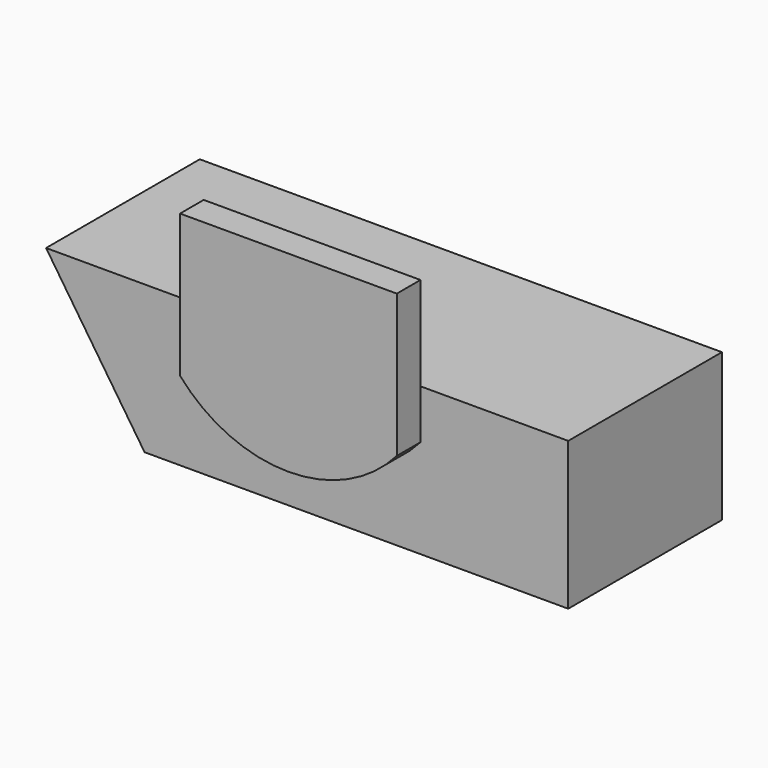
from build123d import *

# Parameters (mm, degrees)
F1_DEPTH = 39
F3_DEPTH = 6


with BuildPart() as f1:
    # F0 (on Front) → F1 (new body)
    with BuildSketch(Plane.XZ):
        Polygon((0, -30), (0, 0), (-106, 0), (-86, -30), align=None)
    extrude(amount=F1_DEPTH)

    # F2 (on face) → F3 (join)
    with BuildSketch(Plane.XZ.offset(39)):
        with BuildLine():
            Line((-74, 19), (-74, -10))
            ThreePointArc((-74, -10), (-52, -20), (-30, -10))
            Line((-30, -10), (-30, 19))
            Line((-30, 19), (-74, 19))
        make_face()
    extrude(amount=F3_DEPTH)


solid = f1.part
